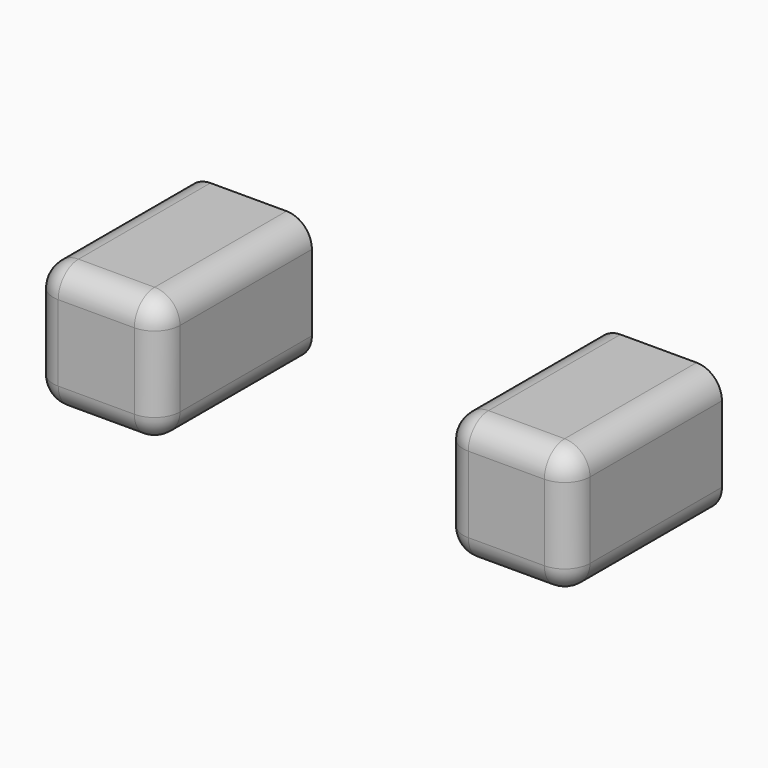
from build123d import *

# Parameters (mm, degrees)
F0_W     = 25.4
F0_H     = 25.4
F1_DEPTH = 38.1
F2_R     = 5.08


with BuildPart() as f1:
    # F0 (on Front) → F1 (new body)
    with BuildSketch(Plane.XZ):
        with Locations((-41.057534, 0)):
            Rectangle(F0_W, F0_H)
        with Locations((41.057534, 0)):
            Rectangle(F0_W, F0_H)
    extrude(amount=F1_DEPTH)

    # F2
    f2_edges = [f1.edges().sort_by_distance(p)[0] for p in [
        (-41.057534, -38.1, 12.7),
        (-28.357534, -38.1, 0),
        (-41.057534, -38.1, -12.7),
        (-53.757534, -38.1, 0),
        (-28.357534, -19.05, -12.7),
        (-53.757534, -19.05, -12.7),
        (-28.357534, -19.05, 12.7),
        (-53.757534, -19.05, 12.7),
        (53.757534, -19.05, 12.7),
        (28.357534, -19.05, 12.7),
        (53.757534, -19.05, -12.7),
        (28.357534, -19.05, -12.7),
        (53.757534, -38.1, 0),
        (41.057534, -38.1, -12.7),
        (28.357534, -38.1, 0),
        (41.057534, -38.1, 12.7),
    ]]
    fillet(f2_edges, radius=F2_R)


solid = f1.part
